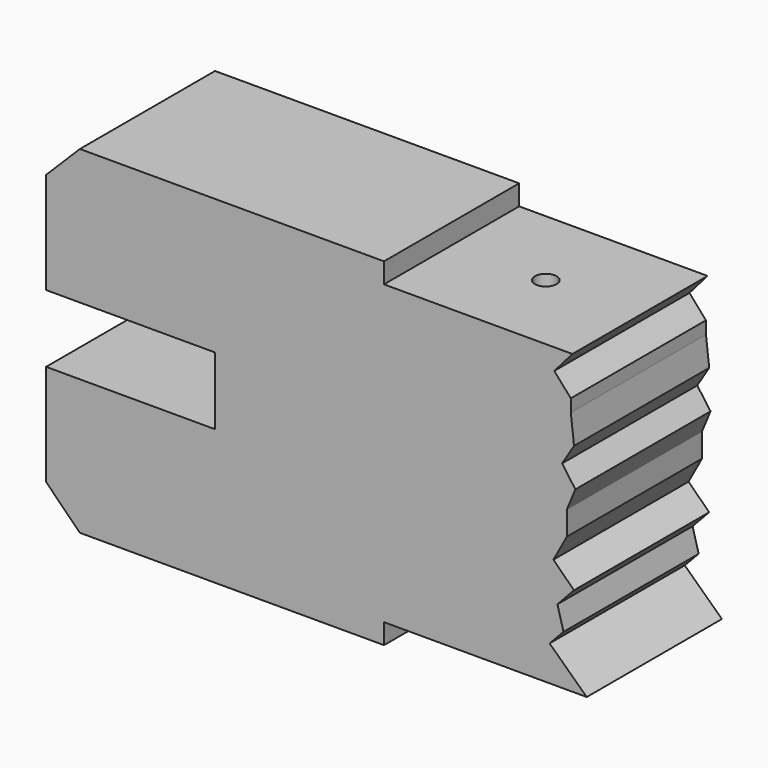
from build123d import *

# Parameters (mm, degrees)
F0_W      = 80
F0_H      = 50
F1_DEPTH  = 25
F3_DEPTH  = 25
F4_W      = 25
F4_H      = 10
F5_DEPTH  = 25
F7_D      = 4.4
F7_DEPTH  = 25
F7_TIP    = 1.3218933619
F8_W      = 30
F8_H      = 3
F9_DEPTH  = 25
F11_DEPTH = 25
F13_D     = 3.2
F13_DEPTH = 15
F13_TIP   = 0.9613769904


with BuildPart() as f1:
    # F0 (on Front) → F1 (new body)
    with BuildSketch(Plane.XZ):
        Rectangle(F0_W, F0_H)
    extrude(amount=F1_DEPTH)

    # F2 (on face) → F3 (cut)
    with BuildSketch(Plane.XZ.offset(25)):
        Polygon((-35, -25), (-40, -20), (-40, -25), align=None)
        Polygon((-40, 20), (-35, 25), (-40, 25), align=None)
    extrude(amount=-F3_DEPTH, mode=Mode.SUBTRACT)

    # F4 (on face) → F5 (cut)
    with BuildSketch(Plane.XZ.offset(25)):
        with Locations((-27.5, 0)):
            Rectangle(F4_W, F4_H)
    extrude(amount=-F5_DEPTH, mode=Mode.SUBTRACT)

    # F7
    with Locations(Plane(origin=(-15, 0, 0), x_dir=(0, -1, 0), z_dir=(-1, 0, 0))):
        with Locations((12.5, 0)):
            Hole(F7_D / 2, depth=F7_DEPTH)
            with Locations((0, 0, -(F7_DEPTH + F7_TIP / 2))):  # 118° drill point
                Cone(0, F7_D / 2, F7_TIP, mode=Mode.SUBTRACT)

    # F8 (on face) → F9 (cut)
    with BuildSketch(Plane.XZ.offset(25)):
        with Locations((25, -23.5)):
            Rectangle(F8_W, F8_H)
        with Locations((25, 23.5)):
            Rectangle(F8_W, F8_H)
    extrude(amount=-F9_DEPTH, mode=Mode.SUBTRACT)

    # F10 (on face) → F11 (cut)
    with BuildSketch(Plane.XZ.offset(25)):
        Polygon((34.5029532909, -16.7983844876), (40, -22), (40, 22), (37.8786325455, 22), (35.2007597685, 18.9214255661), (37.6393385231, 16.1444209516), (37.6393385231, 14.2828542739), (38.1201058626, 10.1062655449), (36.3511256874, 7.2423182428), (38.3169800043, 4.507265985), (37.0589233935, 1.4836080372), (37.0589233935, -2.0621158183), (35.0656695664, -5.7143010199), (38.1139032543, -8.7043344975), (35.661585629, -11.3277509809), (36.5576688207, -14.626969239), align=None)
    extrude(amount=-F11_DEPTH, mode=Mode.SUBTRACT)

    # F13
    with Locations(Plane.XY.offset(22)):
        with Locations((23.9393162727, -12.5)):
            Hole(F13_D / 2, depth=F13_DEPTH)
            with Locations((0, 0, -(F13_DEPTH + F13_TIP / 2))):  # 118° drill point
                Cone(0, F13_D / 2, F13_TIP, mode=Mode.SUBTRACT)


solid = f1.part
